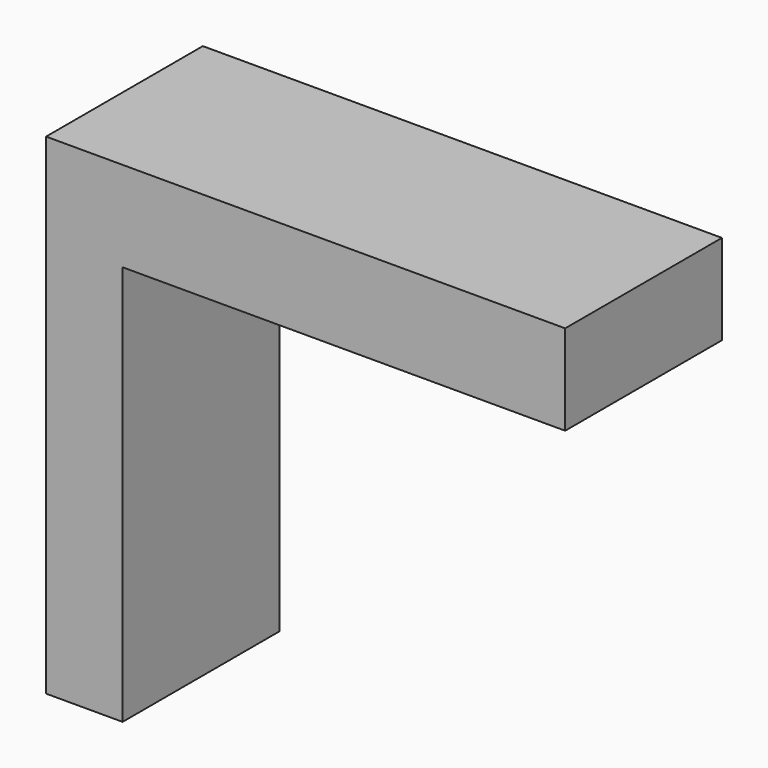
from build123d import *

# Parameters (mm, degrees)
F0_W     = 78.8921192288
F0_H     = 16.0706117749
F1_DEPTH = 25.4
F2_DEPTH = 9.525


with BuildPart() as f1:
    # F0 (on Front) → F1 (new body)
    with BuildSketch(Plane.XZ):
        Polygon((-92.5277918577, 0), (-78.8921192288, 0), (-78.8921192288, 71.3438019156), (-78.8921192288, 87.4144136906), (-92.5277918577, 87.4144136906), align=None)
        with Locations((-39.4460596144, 79.3791078031)):
            Rectangle(F0_W, F0_H)
    extrude(amount=F1_DEPTH)

    # F2 (add, symmetric): a face of the model
    f2_faces = [f1.faces().sort_by_distance(p)[0] for p in [
        (-85.7099555433, -25.4, 1.2728971674),
    ]]
    extrude(f2_faces, amount=F2_DEPTH, both=True)


solid = f1.part
